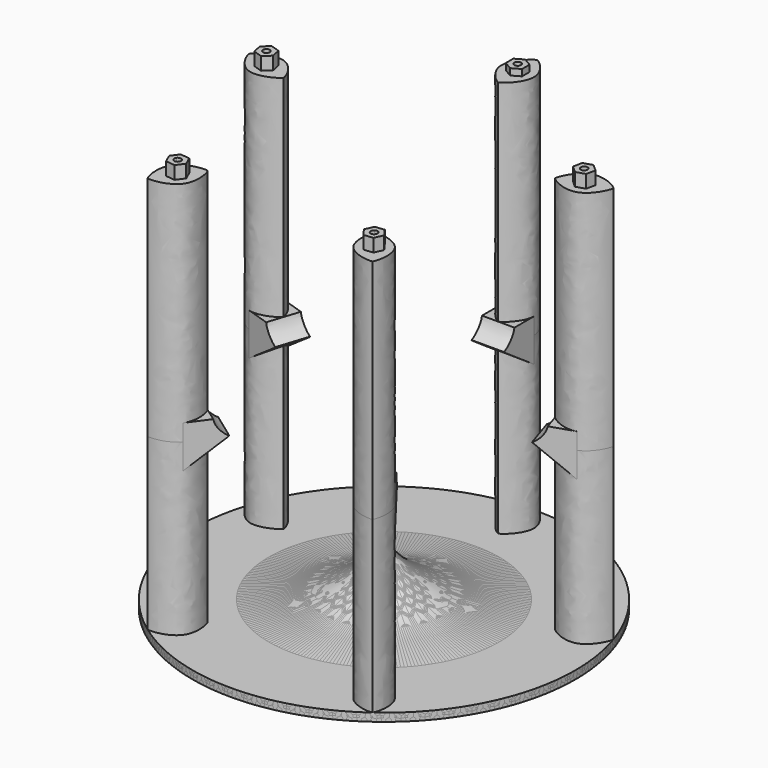
from build123d import *

# Parameters (mm, degrees)
F0_R      = 59
F0_R_2    = 44
F1_DEPTH  = 2.5
F3_DEPTH  = 52.41
F5_DEPTH  = 0.1
F7_DEPTH  = 10
F9_DEPTH  = 10
F11_DEPTH = 70
F13_DEPTH = 4
F16_COUNT = 5
F17_R     = 1.05
F18_DEPTH = 2


with BuildPart() as f1:
    # F0 (on Top) → F1 (new body)
    with BuildSketch(Plane.XY):
        Circle(F0_R)
        Circle(F0_R_2, mode=Mode.SUBTRACT)
        Circle(F0_R_2)
    extrude(amount=F1_DEPTH)

    # F2 (on face) → F3 (join)
    with BuildSketch(Plane.XY.offset(2.5)):
        with BuildLine():
            add(Edge.make_bspline(
                [(5, 51.5), (5, 48.05), (1.5, 44.6), (0, 44)],
                knots=[0.5, 0.5, 0.5, 0.5, 1, 1, 1, 1], degree=3))
            Line((5, 51.5), (-5, 51.5))
            add(Edge.make_bspline(
                [(0, 44), (-1.5, 44.6), (-5, 48.05), (-5, 51.5)],
                knots=[0, 0, 0, 0, 0.5, 0.5, 0.5, 0.5], degree=3))
        make_face()
        with BuildLine():
            add(Edge.make_bspline(
                [(0, 59), (1.5, 58.4), (5, 54.95), (5, 51.5)],
                knots=[0, 0, 0, 0, 0.5, 0.5, 0.5, 0.5], degree=3))
            add(Edge.make_bspline(
                [(-5, 51.5), (-5, 54.95), (-1.5, 58.4), (0, 59)],
                knots=[0.5, 0.5, 0.5, 0.5, 1, 1, 1, 1], degree=3))
            Line((-5, 51.5), (5, 51.5))
        make_face()
    extrude(amount=F3_DEPTH)

    # F4 (on face) → F5 (join)
    with BuildSketch(Plane.XY.offset(54.91)):
        with BuildLine():
            ThreePointArc((5, 43.7149859888), (2.5040583553, 43.9286887097), (0, 44))
            ThreePointArc((0, 44), (-2.5040583553, 43.9286887097), (-5, 43.7149859888))
            Line((-5, 43.7149859888), (-5, 40))
            Line((-5, 40), (5, 40))
            Line((5, 40), (5, 43.7149859888))
        make_face()
        with BuildLine():
            Line((5, 43.7149859888), (5, 51.5))
            add(Edge.make_bspline(
                [(5, 51.5), (5, 48.05), (1.5, 44.6), (0, 44)],
                knots=[0.5, 0.5, 0.5, 0.5, 1, 1, 1, 1], degree=3))
            ThreePointArc((0, 44), (2.5040583553, 43.9286887097), (5, 43.7149859888))
        make_face()
        with BuildLine():
            add(Edge.make_bspline(
                [(0, 44), (-1.5, 44.6), (-5, 48.05), (-5, 51.5)],
                knots=[0, 0, 0, 0, 0.5, 0.5, 0.5, 0.5], degree=3))
            Line((-5, 51.5), (-5, 43.7149859888))
            ThreePointArc((-5, 43.7149859888), (-2.5040583553, 43.9286887097), (0, 44))
        make_face()
        with BuildLine():
            add(Edge.make_bspline(
                [(5, 51.5), (5, 48.05), (1.5, 44.6), (0, 44)],
                knots=[0.5, 0.5, 0.5, 0.5, 1, 1, 1, 1], degree=3))
            Line((5, 51.5), (-5, 51.5))
            add(Edge.make_bspline(
                [(0, 44), (-1.5, 44.6), (-5, 48.05), (-5, 51.5)],
                knots=[0, 0, 0, 0, 0.5, 0.5, 0.5, 0.5], degree=3))
        make_face()
    extrude(amount=F5_DEPTH)

    # F6 (on face) → F7 (join)
    with BuildSketch(Plane(origin=(-5, 0, 0), x_dir=(0, -1, 0), z_dir=(-1, 0, 0))):
        Polygon((-40, 54.91), (-51.5, 54.91), (-51.5, 47.01), align=None)
    extrude(amount=-F7_DEPTH)

    # F8 (on face) → F9 (join)
    with BuildSketch(Plane(origin=(-5, 0, 0), x_dir=(0, -1, 0), z_dir=(-1, 0, 0))):
        with BuildLine():
            Line((-44, 60.01), (-51.5, 60.01))
            Line((-51.5, 60.01), (-51.5, 55.01))
            Line((-51.5, 55.01), (-40, 55.01))
            add(Edge.make_bspline(
                [(-44, 60.01), (-43.8318476081, 59.3241816473), (-43.8104232459, 59.0427204787), (-42.650523693, 56.8454278553), (-40.6815402641, 55.2767965091), (-40, 55.01)],
                knots=[0, 0, 0, 0, 0.2445622847, 0.5891544639, 1, 1, 1, 1], degree=3))
        make_face()
    extrude(amount=-F9_DEPTH)

    # F10 (on face) → F11 (join)
    with BuildSketch(Plane.XY.offset(54.91)):
        with BuildLine():
            add(Edge.make_bspline(
                [(0, 59), (1.5, 58.4), (5, 54.95), (5, 51.5)],
                knots=[0, 0, 0, 0, 0.5, 0.5, 0.5, 0.5], degree=3))
            add(Edge.make_bspline(
                [(-5, 51.5), (-5, 54.95), (-1.5, 58.4), (0, 59)],
                knots=[0.5, 0.5, 0.5, 0.5, 1, 1, 1, 1], degree=3))
            Line((-5, 51.5), (5, 51.5))
        make_face()
        with BuildLine():
            add(Edge.make_bspline(
                [(5, 51.5), (5, 48.05), (1.5, 44.6), (0, 44)],
                knots=[0.5, 0.5, 0.5, 0.5, 1, 1, 1, 1], degree=3))
            Line((5, 51.5), (-5, 51.5))
            add(Edge.make_bspline(
                [(0, 44), (-1.5, 44.6), (-5, 48.05), (-5, 51.5)],
                knots=[0, 0, 0, 0, 0.5, 0.5, 0.5, 0.5], degree=3))
        make_face()
    extrude(amount=F11_DEPTH)

    # F14 (on Right) → F15 (revolve)
    with BuildSketch(Plane.YZ):
        with BuildLine():
            Line((0, 19.95), (0, 2.5))
            Line((0, 2.5), (35.5, 2.5))
            add(Edge.make_bspline(
                [(35.5, 2.5), (31.0594460796, 3.025746029), (26.8289096413, 3.3018567737), (18.3650909303, 4.6995296626), (12.0231672532, 7.8022685097), (6.7773148935, 10.9392557699), (2.1640535316, 15.4750582248), (0.6319712967, 18.2892738851), (0, 19.95)],
                knots=[0, 0, 0, 0, 0.1942904231, 0.3726423518, 0.5416556104, 0.6992579871, 0.8582279074, 1, 1, 1, 1], degree=3))
        make_face()
    revolve(axis=Axis((0, 0, 0), (0, 0, -1)))


with BuildPart() as f13:
    # F12 (on face) → F13 (new body)
    with BuildSketch(Plane.XY.offset(124.91)):
        with BuildLine():
            Line((0, 52.55), (0, 54.4))
            Line((0, 54.4), (-2.511473671, 52.95))
            Line((-2.511473671, 52.95), (-2.511473671, 50.05))
            Line((-2.511473671, 50.05), (0, 48.6))
            Line((0, 48.6), (0, 50.45))
            ThreePointArc((0, 50.45), (-1.05, 51.5), (0, 52.55))
        make_face()
        with BuildLine():
            Line((2.511473671, 50.05), (2.511473671, 52.95))
            Line((2.511473671, 52.95), (0, 54.4))
            Line((0, 54.4), (0, 52.55))
            ThreePointArc((0, 52.55), (0.7424621202, 52.2424621202), (1.05, 51.5))
            ThreePointArc((1.05, 51.5), (0.7424621202, 50.7575378798), (0, 50.45))
            Line((0, 50.45), (0, 48.6))
            Line((0, 48.6), (2.511473671, 50.05))
        make_face()
    extrude(amount=F13_DEPTH)


with BuildPart() as f16_1:
    # F16: instance of F1
    add(f1.part.rotate(Axis((0, 0, 0), (0, 0, 1)), 1 * 360 / F16_COUNT))


with BuildPart() as f16_2:
    # F16: instance of F1
    add(f1.part.rotate(Axis((0, 0, 0), (0, 0, 1)), 2 * 360 / F16_COUNT))


with BuildPart() as f16_3:
    # F16: instance of F1
    add(f1.part.rotate(Axis((0, 0, 0), (0, 0, 1)), 3 * 360 / F16_COUNT))


with BuildPart() as f16_4:
    # F16: instance of F1
    add(f1.part.rotate(Axis((0, 0, 0), (0, 0, 1)), 4 * 360 / F16_COUNT))


with BuildPart() as f16_5:
    # F16: instance of F13
    add(f13.part.rotate(Axis((0, 0, 0), (0, 0, 1)), 1 * 360 / F16_COUNT))


with BuildPart() as f16_6:
    # F16: instance of F13
    add(f13.part.rotate(Axis((0, 0, 0), (0, 0, 1)), 2 * 360 / F16_COUNT))


with BuildPart() as f16_7:
    # F16: instance of F13
    add(f13.part.rotate(Axis((0, 0, 0), (0, 0, 1)), 3 * 360 / F16_COUNT))


with BuildPart() as f16_8:
    # F16: instance of F13
    add(f13.part.rotate(Axis((0, 0, 0), (0, 0, 1)), 4 * 360 / F16_COUNT))


with BuildPart() as f13_1:
    add(f13.part)

    # F17 (on face) → F18 (cut)
    with BuildSketch(Plane.XY.offset(128.91)):
        with BuildLine():
            Line((0, 54.4), (2.511473671, 52.95))
            ThreePointArc((2.511473671, 52.95), (1.45, 54.011473671), (0, 54.4))
        make_face()
        with BuildLine():
            Line((-2.511473671, 52.95), (0, 54.4))
            ThreePointArc((0, 54.4), (-1.45, 54.011473671), (-2.511473671, 52.95))
        make_face()
        with BuildLine():
            Line((-2.511473671, 50.05), (-2.511473671, 52.95))
            ThreePointArc((-2.511473671, 52.95), (-2.9, 51.5), (-2.511473671, 50.05))
        make_face()
        with BuildLine():
            ThreePointArc((-2.511473671, 50.05), (-1.45, 48.988526329), (0, 48.6))
            Line((0, 48.6), (-2.511473671, 50.05))
        make_face()
        with BuildLine():
            ThreePointArc((0, 48.6), (1.45, 48.988526329), (2.511473671, 50.05))
            Line((2.511473671, 50.05), (0, 48.6))
        make_face()
        with BuildLine():
            ThreePointArc((2.511473671, 50.05), (2.8011848962, 50.7494247692), (2.9, 51.5))
            ThreePointArc((2.9, 51.5), (2.8011848962, 52.2505752308), (2.511473671, 52.95))
            Line((2.511473671, 52.95), (2.511473671, 50.05))
        make_face()
        Polygon((2.511473671, 50.05), (2.511473671, 52.95), (0, 54.4), (-2.511473671, 52.95), (-2.511473671, 50.05), (0, 48.6), align=None)
        with Locations((0, 51.5)):
            Circle(F17_R, mode=Mode.SUBTRACT)
    extrude(amount=-F18_DEPTH, mode=Mode.SUBTRACT)


solid = Compound([f1.part, f16_1.part, f16_2.part, f16_3.part, f16_4.part, f16_5.part, f16_6.part, f16_7.part, f16_8.part, f13_1.part])
